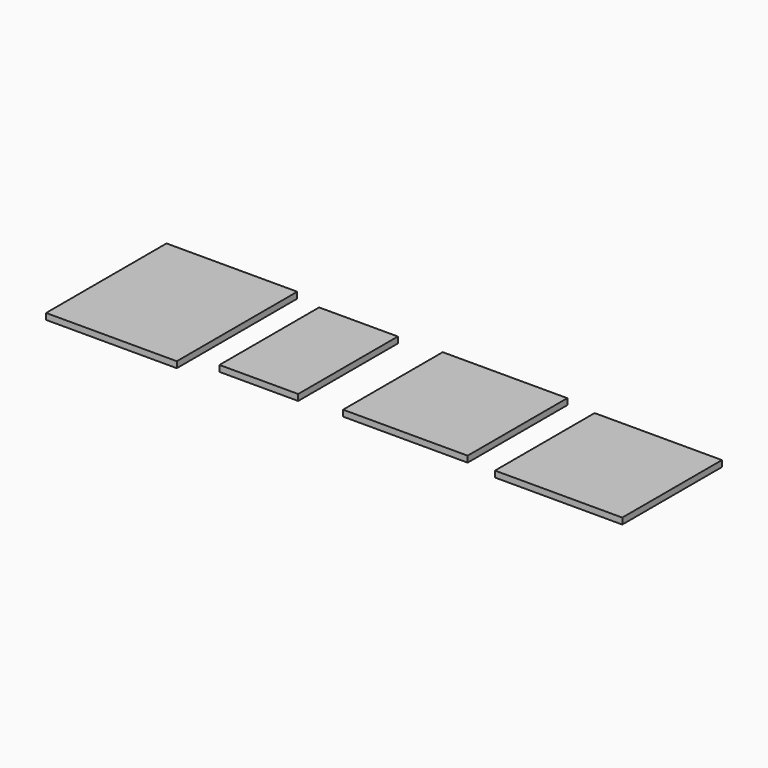
from build123d import *

# Parameters (mm, degrees)
F0_W     = 382
F0_H     = 440
F0_W_2   = 230
F0_H_2   = 364
F0_W_3   = 364
F0_W_4   = 372
F1_DEPTH = 18


with BuildPart() as f1:
    # F0 (on Top) → F1 (new body)
    with BuildSketch(Plane.XY):
        with Locations((-157.42226, 183.361308)):
            Rectangle(F0_W, F0_H)
        with Locations((236.078864, 191.912371)):
            Rectangle(F0_W_2, F0_H_2)
        with Locations((661.476832, 195.483948)):
            Rectangle(F0_W_3, F0_H_2)
        with Locations((1124.207129, 176.973399)):
            Rectangle(F0_W_4, F0_H_2)
    extrude(amount=F1_DEPTH)


solid = f1.part
